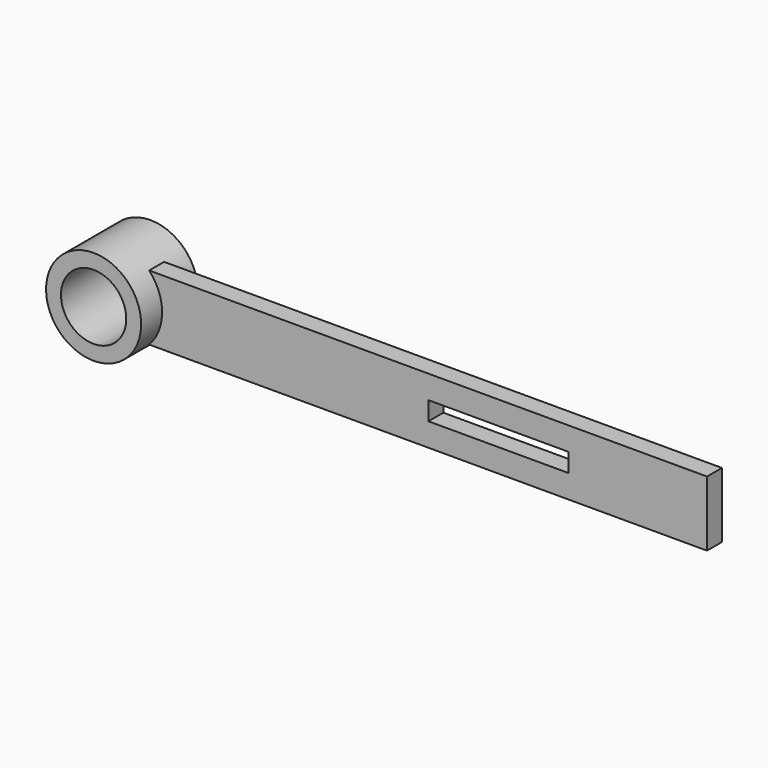
from build123d import *

# Parameters (mm, degrees)
F0_W     = 1935.48
F0_H     = 406.4
F3_W     = 508
F3_H     = 1778
F4_DEPTH = 15240
F5_W     = 3810
F5_H     = 508
F6_DEPTH = 1221.741


with BuildPart() as f1:
    # F0 (on Right) → F1 (revolve)
    with BuildSketch(Plane.YZ):
        with Locations((967.74, 1092.2)):
            Rectangle(F0_W, F0_H)
    revolve(axis=Axis((0, 366.825014, 0), (0, 1, 0)))

    # F3 (on offset) → F4 (join)
    with BuildSketch(Plane.YZ.offset(899.16)):
        with Locations((967.74, 0)):
            Rectangle(F3_W, F3_H)
    extrude(amount=F4_DEPTH)

    # F5 (on face) → F6 (cut, through all)
    with BuildSketch(Plane.XZ.offset(-713.74)):
        with Locations((10455.9403, 0)):
            Rectangle(F5_W, F5_H)
    extrude(amount=-F6_DEPTH, mode=Mode.SUBTRACT)


solid = f1.part
